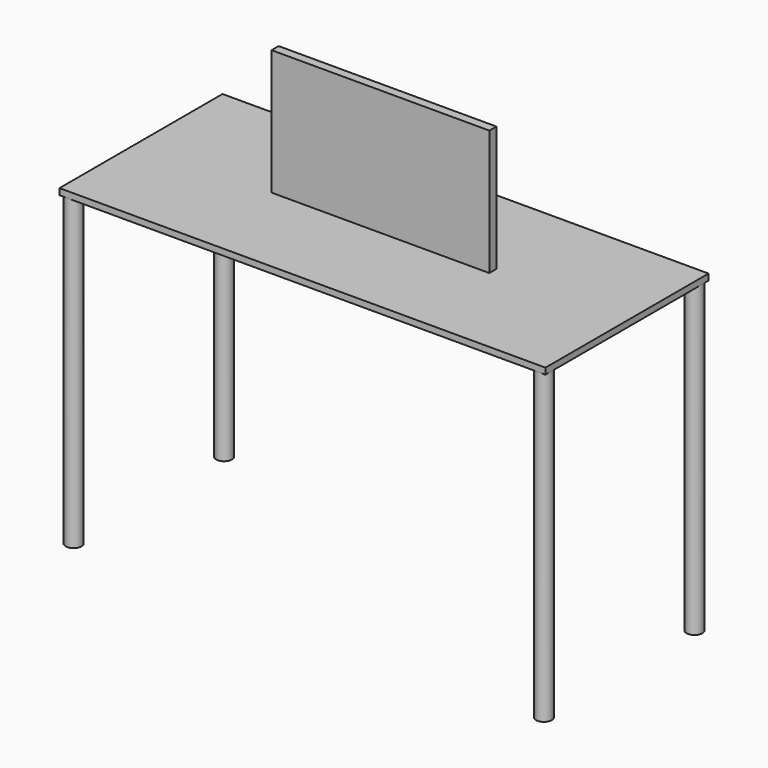
from build123d import *

# Parameters (mm, degrees)
F1_R     = 25
F3_DEPTH = 980
F2_W     = 1550
F2_H     = 650
F4_DEPTH = 20
F5_W     = 694.399952
F5_H     = 28.21
F6_DEPTH = 400


with BuildPart() as f3:
    # F1 (on Top) → F3 (new body)
    with BuildSketch(Plane.XY):
        with Locations((-750, 300)):
            Circle(F1_R)
        with Locations((-750, -300)):
            Circle(F1_R)
        with Locations((750, -300)):
            Circle(F1_R)
        with Locations((750, 300)):
            Circle(F1_R)
    extrude(amount=F3_DEPTH)


with BuildPart() as f4:
    # F2 (on offset) → F4 (new body)
    with BuildSketch(Plane.XY.offset(1000)):
        Rectangle(F2_W, F2_H)
    extrude(amount=-F4_DEPTH)

    # F5 (on offset) → F6 (join)
    with BuildSketch(Plane.XY.offset(1000)):
        Rectangle(F5_W, F5_H)
    extrude(amount=F6_DEPTH)


solid = Compound([f3.part, f4.part])
